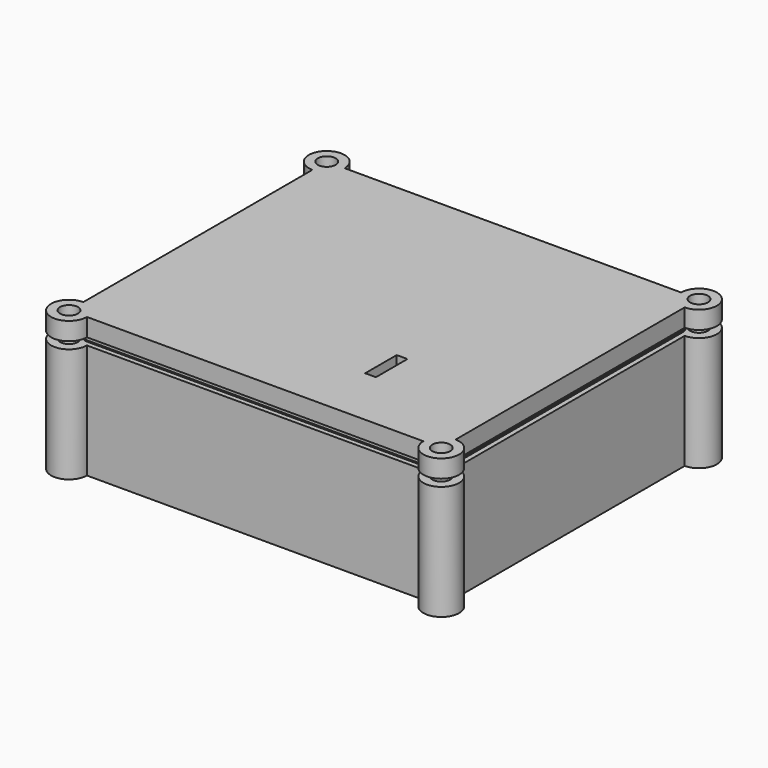
from build123d import *

# Parameters (mm, degrees)
SKETCH001_W     = 104
SKETCH001_H     = 90
PAD_DEPTH       = 32
SKETCH002_W     = 98
SKETCH002_H     = 84
POCKET_DEPTH    = 29
SKETCH003_R     = 3.75
SKETCH003_R_2   = 1.375
PAD001_DEPTH    = 5
SKETCH005_W     = 2.75
SKETCH005_H     = 11
POCKET002_DEPTH = 5
SKETCH006_R     = 5
SKETCH006_R_2   = 2.5
PAD002_DEPTH    = 32
SKETCH004_R     = 8
SKETCH004_R_2   = 6.25
POCKET003_DEPTH = 5
SKETCH007_R     = 2.5
POCKET004_DEPTH = 32.001
POCKET007_DEPTH = 2
SKETCH008_W     = 104
SKETCH008_H     = 90
PAD003_DEPTH    = 5
SKETCH009_R     = 5
PAD004_DEPTH    = 5
SKETCH010_R     = 2.5
POCKET005_DEPTH = 5
SKETCH011_W     = 3
SKETCH011_H     = 11
POCKET006_DEPTH = 5
SKETCH013_W     = 98
SKETCH013_H     = 84
PAD005_DEPTH    = 1.8


with BuildPart() as body:
    # Sketch001 → Pad (new body)
    with BuildSketch(Plane.XY):
        with Locations((-52, 45)):
            Rectangle(SKETCH001_W, SKETCH001_H)
    extrude(amount=PAD_DEPTH)

    # Sketch002 (on Face6 of Pad) → Pocket (cut)
    with BuildSketch(Plane.XY.offset(32)):
        with Locations((-52, 45)):
            Rectangle(SKETCH002_W, SKETCH002_H)
    extrude(amount=-POCKET_DEPTH, mode=Mode.SUBTRACT)

    # Sketch003 (on Face11 of Pocket) → Pad001 (join)
    with BuildSketch(Plane.XY.offset(3)):
        with Locations((-95.17, 64.69)):
            Circle(SKETCH003_R)
        with Locations((-95.17, 64.69)):
            Circle(SKETCH003_R_2, mode=Mode.SUBTRACT)
        with Locations((-95.17, 8.81)):
            Circle(SKETCH003_R)
        with Locations((-95.17, 8.81)):
            Circle(SKETCH003_R_2, mode=Mode.SUBTRACT)
        with Locations((-8.81, 8.81)):
            Circle(SKETCH003_R)
        with Locations((-8.81, 8.81)):
            Circle(SKETCH003_R_2, mode=Mode.SUBTRACT)
        with Locations((-8.81, 64.69)):
            Circle(SKETCH003_R)
        with Locations((-8.81, 64.69)):
            Circle(SKETCH003_R_2, mode=Mode.SUBTRACT)
    extrude(amount=PAD001_DEPTH)

    # Sketch005 → Pocket002 (cut)
    with BuildSketch(Plane.XZ):
        with Locations((-109.432941, 14.163324)):
            Rectangle(SKETCH005_W, SKETCH005_H)
    extrude(amount=-POCKET002_DEPTH, mode=Mode.SUBTRACT)

    # Sketch006 (on Face4 of Pocket002) → Pad002 (join)
    with BuildSketch(Plane(origin=(0, 0, 0), x_dir=(1, 0, 0), z_dir=(0, 0, -1))):
        with Locations((-104, 0)):
            Circle(SKETCH006_R)
        with Locations((-104, 0)):
            Circle(SKETCH006_R_2, mode=Mode.SUBTRACT)
        with Locations((-104, -90)):
            Circle(SKETCH006_R)
        with Locations((-104, -90)):
            Circle(SKETCH006_R_2, mode=Mode.SUBTRACT)
        with Locations((0, -90)):
            Circle(SKETCH006_R)
        with Locations((0, -90)):
            Circle(SKETCH006_R_2, mode=Mode.SUBTRACT)
        Circle(SKETCH006_R)
        Circle(SKETCH006_R_2, mode=Mode.SUBTRACT)
    extrude(amount=-PAD002_DEPTH)

    # Sketch004 (on Face1 of Pad001) → Pocket003 (cut)
    with BuildSketch(Plane(origin=(0, 90, 0), x_dir=(-1, 0, 0), z_dir=(0, 1, 0))):
        with Locations((20, 17.5)):
            Circle(SKETCH004_R)
        with Locations((50, 17.5)):
            Circle(SKETCH004_R_2)
    extrude(amount=-POCKET003_DEPTH, mode=Mode.SUBTRACT)

    # Sketch007 (on Face18 of Pad002) → Pocket004 (cut, through all)
    with BuildSketch(Plane.XY.offset(32)):
        with Locations((-104, 90)):
            Circle(SKETCH007_R)
        with Locations((-104, 0)):
            Circle(SKETCH007_R)
        with Locations((0, 90)):
            Circle(SKETCH007_R)
        Circle(SKETCH007_R)
    extrude(amount=-POCKET004_DEPTH, mode=Mode.SUBTRACT)

    # Sketch012 (on Face3 of Pocket004) → Pocket007 (cut)
    with BuildSketch(Plane.XY.offset(32)):
        with BuildLine():
            Line((-100.1, 88.6), (-3.9, 88.6))
            ThreePointArc((-1.4, 86.1), (-2.132233, 87.867767), (-3.9, 88.6))
            Line((-1.4, 86.1), (-1.4, 3.9))
            ThreePointArc((-3.9, 1.4), (-2.132233, 2.132233), (-1.4, 3.9))
            Line((-3.9, 1.4), (-100.1, 1.4))
            ThreePointArc((-102.6, 3.9), (-101.867767, 2.132233), (-100.1, 1.4))
            Line((-102.6, 3.9), (-102.6, 86.1))
            ThreePointArc((-100.1, 88.6), (-101.867767, 87.867767), (-102.6, 86.1))
        make_face()
    extrude(amount=-POCKET007_DEPTH, mode=Mode.SUBTRACT)


with BuildPart() as top:
    # Sketch008 → Pad003 (new body)
    with BuildSketch(Plane.XY):
        with Locations((-52, 45)):
            Rectangle(SKETCH008_W, SKETCH008_H)
    extrude(amount=-PAD003_DEPTH)

    # Sketch009 (on Face6 of Pad003) → Pad004 (join)
    with BuildSketch(Plane(origin=(0, 0, -5), x_dir=(1, 0, 0), z_dir=(0, 0, -1))):
        with Locations((-104, 0)):
            Circle(SKETCH009_R)
        Circle(SKETCH009_R)
        with Locations((0, -90)):
            Circle(SKETCH009_R)
        with Locations((-104, -90)):
            Circle(SKETCH009_R)
    extrude(amount=-PAD004_DEPTH)

    # Sketch010 (on Face8 of Pad004) → Pocket005 (cut)
    with BuildSketch(Plane(origin=(0, 0, -5), x_dir=(1, 0, 0), z_dir=(0, 0, -1))):
        with Locations((-104, 0)):
            Circle(SKETCH010_R)
        with Locations((-104, -90)):
            Circle(SKETCH010_R)
        with Locations((0, -90)):
            Circle(SKETCH010_R)
        Circle(SKETCH010_R)
    extrude(amount=-POCKET005_DEPTH, mode=Mode.SUBTRACT)

    # Sketch011 (on Face2 of Pocket005) → Pocket006 (cut)
    with BuildSketch(Plane.XY):
        with Locations((-33.481134, 22.659185)):
            Rectangle(SKETCH011_W, SKETCH011_H)
    extrude(amount=-POCKET006_DEPTH, mode=Mode.SUBTRACT)

    # Sketch013 (on Face4 of Pocket006) → Pad005 (join)
    with BuildSketch(Plane(origin=(0, 0, -5), x_dir=(1, 0, 0), z_dir=(0, 0, -1))):
        with BuildLine():
            Line((-100.4, -1.6), (-3.6, -1.6))
            ThreePointArc((-1.6, -3.6), (-2.185786, -2.185786), (-3.6, -1.6))
            Line((-1.6, -3.6), (-1.6, -86.4))
            ThreePointArc((-3.6, -88.4), (-2.185786, -87.814214), (-1.6, -86.4))
            Line((-3.6, -88.4), (-100.4, -88.4))
            ThreePointArc((-102.4, -86.4), (-101.814214, -87.814214), (-100.4, -88.4))
            Line((-102.4, -86.4), (-102.4, -3.6))
            ThreePointArc((-100.4, -1.6), (-101.814214, -2.185786), (-102.4, -3.6))
        make_face()
        with Locations((-52, -45)):
            Rectangle(SKETCH013_W, SKETCH013_H, mode=Mode.SUBTRACT)
    extrude(amount=PAD005_DEPTH)


with BuildPart() as top_1:
    # Body001 placement: moved
    add(top.part.moved(Location((0, 0, 39))))


solid = Compound([body.part, top_1.part])
